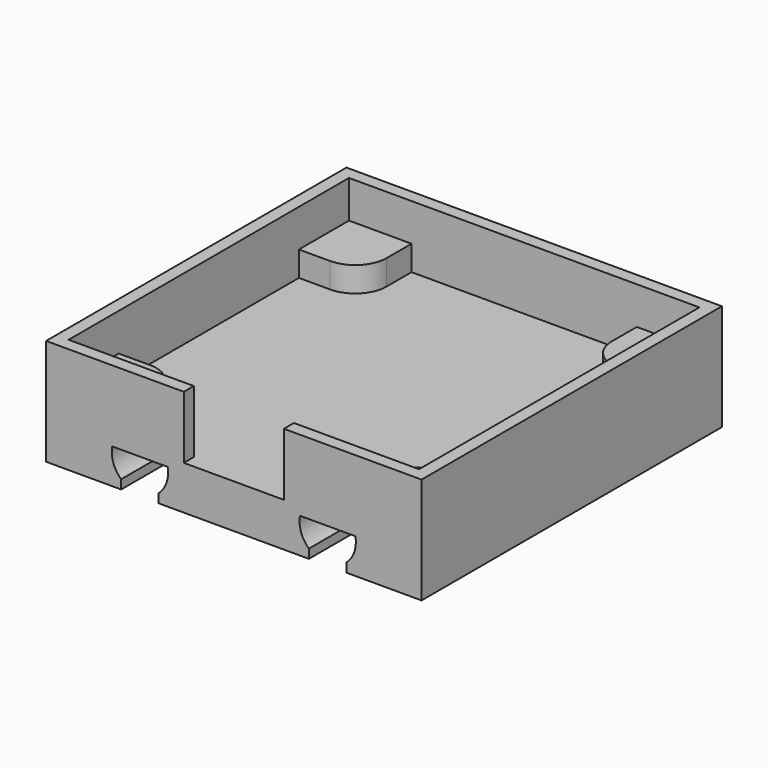
from build123d import *

# Parameters (mm, degrees)
SKETCH_W            = 30
SKETCH_H            = 30
PAD_DEPTH           = 3.5
POCKET_DEPTH        = 30.001
LINEARPATTERN_COUNT = 2
LINEARPATTERN_PITCH = 15
SKETCH002_W         = 30
SKETCH002_H         = 30
SKETCH002_W_2       = 28
SKETCH002_H_2       = 28
PAD001_DEPTH        = 5
PAD002_DEPTH        = 2
POLARPATTERN_COUNT  = 4
SKETCH004_W         = 8
SKETCH004_H         = 5
POCKET001_DEPTH     = 1


with BuildPart() as part:
    # Sketch → Pad (new body)
    with BuildSketch(Plane.XY):
        Rectangle(SKETCH_W, SKETCH_H)
    extrude(amount=PAD_DEPTH)

    # Sketch001 → Pocket (cut, through all)
    with BuildSketch(Plane(origin=(0, 15, 0), x_dir=(-1, 0, 0), z_dir=(0, 1, 0))):
        with BuildLine():
            Line((-9, 0.722949), (-9, 0))
            Line((-9, 0), (-6, 0))
            Line((-6, 0), (-6, 0.722949))
            ThreePointArc((-6, 0.722949), (-5.37226, 1.668412), (-5.285841, 2.8))
            Line((-9.714159, 2.8), (-5.285841, 2.8))
            ThreePointArc((-9.714159, 2.8), (-9.62774, 1.668412), (-9, 0.722949))
        make_face()
    pocket = extrude(amount=-POCKET_DEPTH, mode=Mode.SUBTRACT)

    # LinearPattern: Pocket ×2
    with Locations(*[(-i * LINEARPATTERN_PITCH, 0, 0) for i in range(1, LINEARPATTERN_COUNT)]):
        add(pocket, mode=Mode.SUBTRACT)

    # Sketch002 → Pad001 (new body)
    with BuildSketch(Plane.XY.offset(3.5)):
        Rectangle(SKETCH002_W, SKETCH002_H)
        Rectangle(SKETCH002_W_2, SKETCH002_H_2, mode=Mode.SUBTRACT)
    extrude(amount=PAD001_DEPTH)

    # Sketch003 → Pad002 (new body)
    with BuildSketch(Plane.XY.offset(3.5)):
        with BuildLine():
            Line((-14, 14), (-14, 9))
            Line((-14, 9), (-11.5, 9))
            ThreePointArc((-11.5, 9), (-9.732233, 9.732233), (-9, 11.5))
            Line((-9, 14), (-9, 11.5))
            Line((-14, 14), (-9, 14))
        make_face()
    pad002 = extrude(amount=PAD002_DEPTH)

    # PolarPattern: Pad002 ×4 about axis
    polarpattern_axis = Axis((0, 0, 3.5), (0, 0, 1))
    for i in range(1, POLARPATTERN_COUNT):
        add(pad002.rotate(polarpattern_axis, i * 360 / POLARPATTERN_COUNT))

    # Sketch004 → Pocket001 (cut)
    with BuildSketch(Plane.XZ.offset(15)):
        with Locations((0, 6)):
            Rectangle(SKETCH004_W, SKETCH004_H)
    extrude(amount=-POCKET001_DEPTH, mode=Mode.SUBTRACT)


solid = part.part
